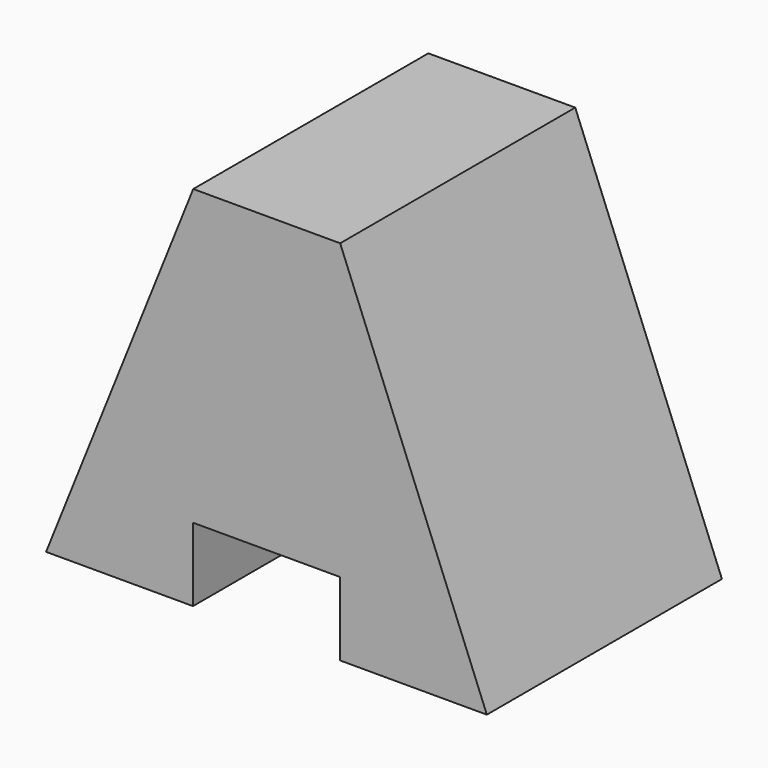
from build123d import *

# Parameters (mm, degrees)
F0_W     = 38.1
F0_H     = 31.75
F1_DEPTH = 25.4
F2_W     = 12.7
F2_H     = 6.35
F3_DEPTH = 25.4
F5_DEPTH = 25.4


with BuildPart() as f1:
    # F0 (on Front) → F1 (new body)
    with BuildSketch(Plane.XZ):
        with Locations((19.05, 15.875)):
            Rectangle(F0_W, F0_H)
    extrude(amount=F1_DEPTH)

    # F2 (on face) → F3 (cut)
    with BuildSketch(Plane.XZ.offset(25.4)):
        with Locations((19.05, 3.175)):
            Rectangle(F2_W, F2_H)
    extrude(amount=-F3_DEPTH, mode=Mode.SUBTRACT)

    # F4 (on face) → F5 (cut)
    with BuildSketch(Plane.XZ.offset(25.4)):
        Polygon((38.1, 31.75), (25.42089, 31.75), (38.1, 0), align=None)
        Polygon((0, 31.75), (0, 0), (12.72089, 31.75), align=None)
    extrude(amount=-F5_DEPTH, mode=Mode.SUBTRACT)


solid = f1.part
